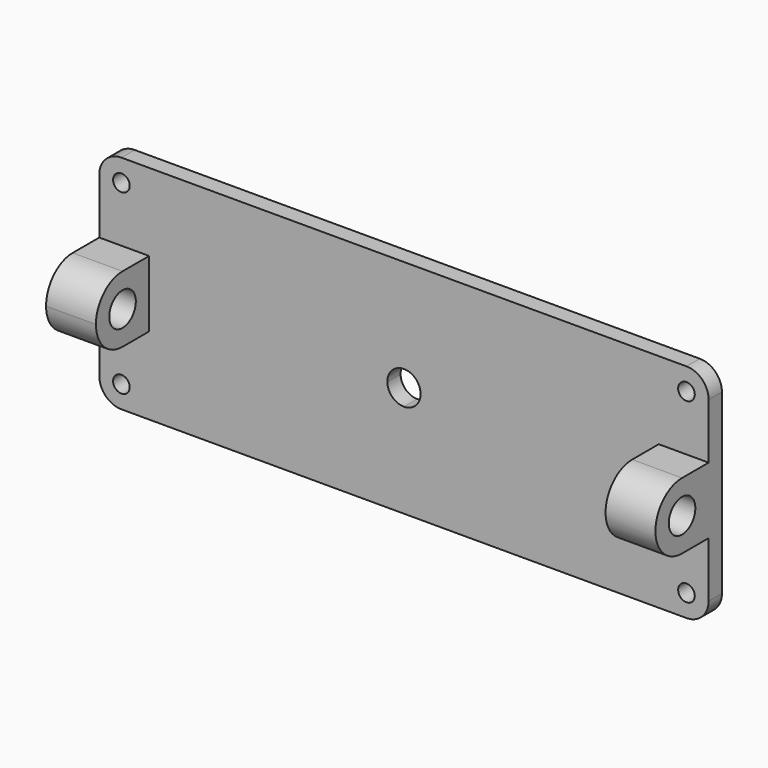
from build123d import *

# Parameters (mm, degrees)
F0_R     = 9.525
F1_DEPTH = 9.525
F3_R     = 19.05
F4_DEPTH = 57.15
F7_DEPTH = 57.15


with BuildPart() as f1:
    # F0 (on Front) → F1 (new body, symmetric)
    with BuildSketch(Plane.XZ):
        with BuildLine():
            Line((19.05, 0), (349.25, 0))
            Line((349.25, 0), (349.25, 101.6))
            ThreePointArc((349.25, 101.6), (341.810512, 119.560512), (323.85, 127))
            Line((323.85, 127), (0, 127))
            Line((0, 127), (0, 19.05))
            ThreePointArc((0, 19.05), (13.470384, 13.470384), (19.05, 0))
        make_face()
        with Locations((323.85, 101.6)):
            Circle(F0_R, mode=Mode.SUBTRACT)
        with BuildLine():
            Line((-349.25, 0), (-19.05, 0))
            ThreePointArc((-19.05, 0), (-13.470384, 13.470384), (0, 19.05))
            Line((0, 19.05), (0, 127))
            Line((0, 127), (-323.85, 127))
            ThreePointArc((-323.85, 127), (-341.810512, 119.560512), (-349.25, 101.6))
            Line((-349.25, 101.6), (-349.25, 0))
        make_face()
        with Locations((-323.85, 101.6)):
            Circle(F0_R, mode=Mode.SUBTRACT)
        with BuildLine():
            Line((-323.85, -127), (0, -127))
            Line((0, -127), (0, -19.05))
            ThreePointArc((0, -19.05), (-13.470384, -13.470384), (-19.05, 0))
            Line((-19.05, 0), (-349.25, 0))
            Line((-349.25, 0), (-349.25, -101.6))
            ThreePointArc((-349.25, -101.6), (-341.810512, -119.560512), (-323.85, -127))
        make_face()
        with Locations((-323.85, -101.6)):
            Circle(F0_R, mode=Mode.SUBTRACT)
        with BuildLine():
            Line((0, -127), (323.85, -127))
            ThreePointArc((323.85, -127), (341.810512, -119.560512), (349.25, -101.6))
            Line((349.25, -101.6), (349.25, 0))
            Line((349.25, 0), (19.05, 0))
            ThreePointArc((19.05, 0), (13.470384, -13.470384), (0, -19.05))
            Line((0, -19.05), (0, -127))
        make_face()
        with Locations((323.85, -101.6)):
            Circle(F0_R, mode=Mode.SUBTRACT)
    extrude(amount=F1_DEPTH, both=True)

    # F3 (on offset) → F4 (join)
    with BuildSketch(Plane.YZ.offset(349.25)):
        with BuildLine():
            Line((-47.625, -38.1), (-9.525, -38.1))
            Line((-9.525, -38.1), (-9.525, 0))
            ThreePointArc((-9.525, 0), (-20.684232, -26.940768), (-47.625, -38.1))
        make_face()
        with BuildLine():
            ThreePointArc((-47.625, 38.1), (-20.684232, 26.940768), (-9.525, 0))
            Line((-9.525, 0), (-9.525, 38.1))
            Line((-9.525, 38.1), (-47.625, 38.1))
        make_face()
        with Locations((-47.625, 0)):
            Circle(F3_R)
        with BuildLine():
            ThreePointArc((-47.625, -38.1), (-20.684232, -26.940768), (-9.525, 0))
            ThreePointArc((-9.525, 0), (-20.684232, 26.940768), (-47.625, 38.1))
            ThreePointArc((-47.625, 38.1), (-85.725, 0), (-47.625, -38.1))
        make_face()
        with Locations((-47.625, 0)):
            Circle(F3_R, mode=Mode.SUBTRACT)
    extrude(amount=-F4_DEPTH)

    # F6 (on offset) → F7 (join)
    with BuildSketch(Plane(origin=(-349.25, 0, 0), x_dir=(0, -1, 0), z_dir=(-1, 0, 0))):
        with BuildLine():
            ThreePointArc((47.625, 38.1), (20.684232, 26.940768), (9.525, 0))
            ThreePointArc((9.525, 0), (20.684232, -26.940768), (47.625, -38.1))
            ThreePointArc((47.625, -38.1), (74.565768, -26.940768), (85.725, 0))
            ThreePointArc((85.725, 0), (74.565768, 26.940768), (47.625, 38.1))
        make_face()
        with BuildLine():
            ThreePointArc((66.675, 0), (47.625, -19.05), (28.575, 0))
            ThreePointArc((28.575, 0), (47.625, 19.05), (66.675, 0))
        make_face(mode=Mode.SUBTRACT)
        with BuildLine():
            Line((9.525, 38.1), (9.525, 0))
            ThreePointArc((9.525, 0), (20.684232, 26.940768), (47.625, 38.1))
            Line((47.625, 38.1), (9.525, 38.1))
        make_face()
        with BuildLine():
            Line((9.525, 0), (9.525, -38.1))
            Line((9.525, -38.1), (47.625, -38.1))
            ThreePointArc((47.625, -38.1), (20.684232, -26.940768), (9.525, 0))
        make_face()
    extrude(amount=-F7_DEPTH)


solid = f1.part
